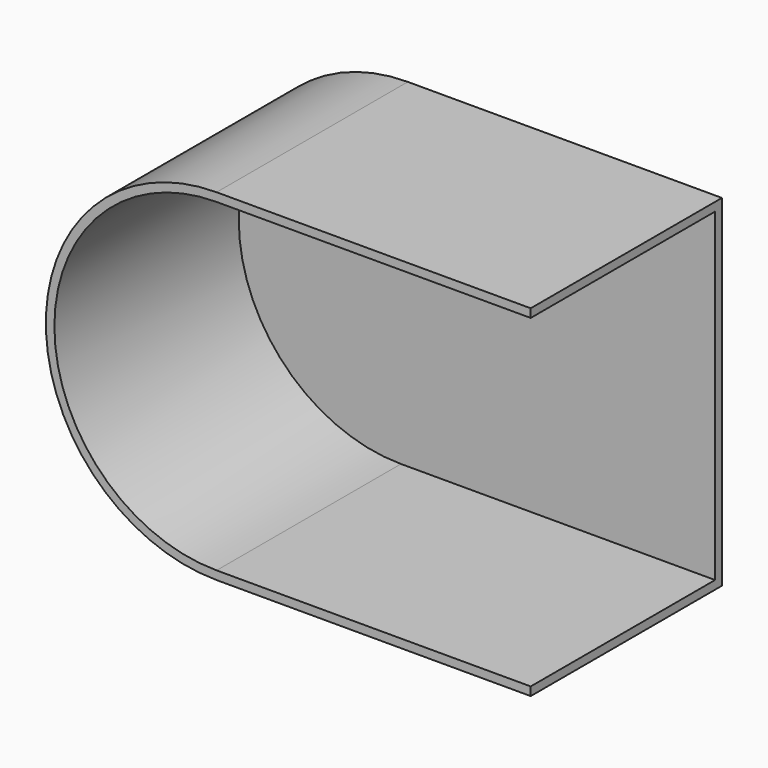
from build123d import *

# Parameters (mm, degrees)
F1_DEPTH = 70
F2_T     = -2.5


with BuildPart() as f1:
    # F0 (on Front) → F1 (new body)
    with BuildSketch(Plane.XZ):
        with BuildLine():
            Line((-34.637429, 57.968741), (-126.637429, 57.968741))
            ThreePointArc((-126.637429, 57.968741), (-176.637429, 7.968741), (-126.637429, -42.031259))
            Line((-126.637429, -42.031259), (-34.637429, -42.031259))
            Line((-34.637429, -42.031259), (-34.637429, 57.968741))
        make_face()
    extrude(amount=F1_DEPTH)

    # F2
    f2_openings = [f1.faces().sort_by_distance(p)[0] for p in [
        (-34.637429, -35, 7.968741),
        (-100.746753, -70, 7.968741),
    ]]
    offset(amount=F2_T, openings=f2_openings)


solid = f1.part
